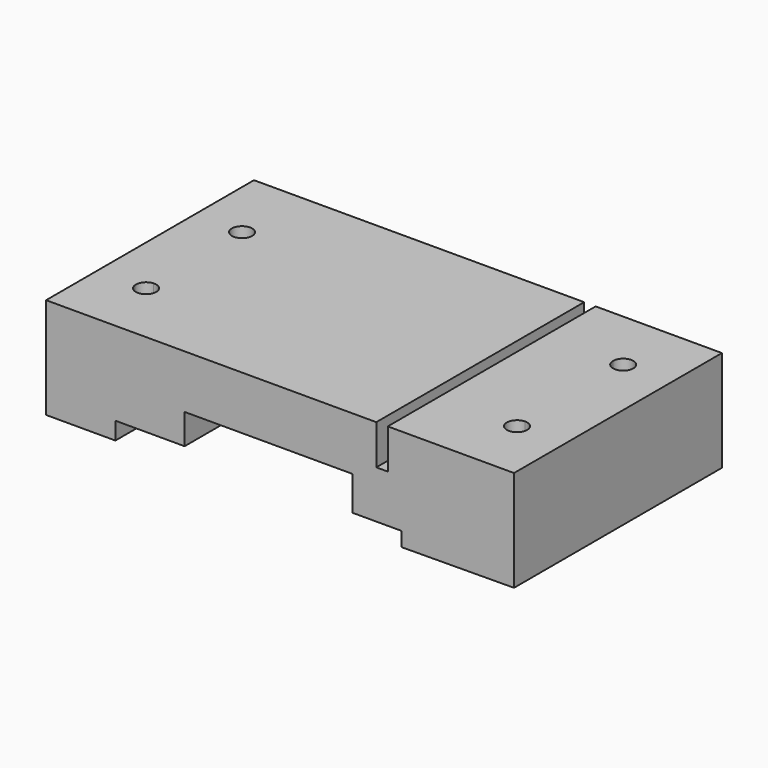
from build123d import *

# Parameters (mm, degrees)
F1_DEPTH = 2286
F3_DEPTH = 895.7209988133


with BuildPart() as f1:
    # F0 (on Front) → F1 (new body)
    with BuildSketch(Plane.XZ):
        Polygon((-2173.2498644925, -413.1607788317), (-1563.6498644925, -413.1607788317), (-1563.6498644925, -259.1607647607), (-954.8118644925, -259.1607647607), (-954.8118644925, 6.839222355), (522.7061355075, 6.839222355), (522.7061355075, -294.150777645), (952.4741355075, -294.150777645), (952.4741355075, -419.880777645), (1396.7500487082, -416.8669137146), (1943.0741355075, -413.1607788317), (1943.0741355075, 475.8392211683), (832.3321355075, 475.8392211683), (832.3321355075, 125.8391950607), (731.4941355075, 125.8391950607), (731.4941355075, 475.8392211683), (-2173.2498644925, 475.8392211683), align=None)
    extrude(amount=F1_DEPTH)

    # F2 (on face) → F3 (cut, through all)
    with BuildSketch(Plane.XY.offset(475.8392211683)):
        with BuildLine():
            Line((-1754.1498644925, -744.5998737153), (-1754.1498644925, -565.7838737153))
            ThreePointArc((-1754.1498644925, -565.7838737153), (-1843.5578644925, -655.1918737153), (-1754.1498644925, -744.5998737153))
        make_face()
        with BuildLine():
            Line((-1836.9548991941, -1727.2), (-1754.1498644925, -1727.2))
            Line((-1754.1498644925, -1727.2), (-1754.1498644925, -1629.2347665525))
            ThreePointArc((-1754.1498644925, -1629.2347665525), (-1816.2614033196, -1660.7130995458), (-1836.9548991941, -1727.2))
        make_face()
        with BuildLine():
            ThreePointArc((-1836.9548991941, -1727.2), (-1810.2703685282, -1782.5657985528), (-1754.1498644925, -1807.624227335))
            Line((-1754.1498644925, -1807.624227335), (-1754.1498644925, -1727.2))
            Line((-1754.1498644925, -1727.2), (-1836.9548991941, -1727.2))
        make_face()
        with BuildLine():
            ThreePointArc((-1754.1498644925, -1807.624227335), (-1690.2617141483, -1786.7127887171), (-1659.0013238983, -1727.2))
            Line((-1659.0013238983, -1727.2), (-1754.1498644925, -1727.2))
            Line((-1754.1498644925, -1727.2), (-1754.1498644925, -1807.624227335))
        make_face()
        with BuildLine():
            Line((-1754.1498644925, -1727.2), (-1659.0013238983, -1727.2))
            ThreePointArc((-1659.0013238983, -1727.2), (-1658.6779797042, -1722.8200455414), (-1658.5701115462, -1718.4294969437))
            ThreePointArc((-1658.5701115462, -1718.4294969437), (-1686.9781673799, -1653.0628596147), (-1754.1498644925, -1629.2347665525))
            Line((-1754.1498644925, -1629.2347665525), (-1754.1498644925, -1727.2))
        make_face()
        with BuildLine():
            ThreePointArc((-1664.7418644925, -655.1918737153), (-1690.9288614001, -591.970870623), (-1754.1498644925, -565.7838737153))
            Line((-1754.1498644925, -565.7838737153), (-1754.1498644925, -744.5998737153))
            ThreePointArc((-1754.1498644925, -744.5998737153), (-1690.9288614001, -718.4128768077), (-1664.7418644925, -655.1918737153))
        make_face()
        with BuildLine():
            Line((1523.9741355075, -558.8), (1432.032637423, -558.8))
            ThreePointArc((1432.032637423, -558.8), (1459.3452205786, -622.5030019151), (1523.9741355075, -647.5460250302))
            Line((1523.9741355075, -647.5460250302), (1523.9741355075, -558.8))
        make_face()
        with BuildLine():
            Line((1523.9741355075, -558.8), (1523.9741355075, -468.8019538916))
            ThreePointArc((1523.9741355075, -468.8019538916), (1458.8963283547, -494.2813137682), (1432.032637423, -558.8))
            Line((1432.032637423, -558.8), (1523.9741355075, -558.8))
        make_face()
        with BuildLine():
            ThreePointArc((1610.8442542135, -558.8), (1610.8458979154, -558.4869966486), (1610.8464458183, -558.1739894609))
            ThreePointArc((1610.8464458183, -558.1739894609), (1585.549682773, -495.8559362168), (1523.9741355075, -468.8019538916))
            Line((1523.9741355075, -468.8019538916), (1523.9741355075, -558.8))
            Line((1523.9741355075, -558.8), (1610.8442542135, -558.8))
        make_face()
        with BuildLine():
            ThreePointArc((1523.9741355075, -647.5460250302), (1585.3311215109, -620.7161069245), (1610.8442542135, -558.8))
            Line((1610.8442542135, -558.8), (1523.9741355075, -558.8))
            Line((1523.9741355075, -558.8), (1523.9741355075, -647.5460250302))
        make_face()
        with BuildLine():
            Line((1523.9741355075, -1727.2), (1523.9741355075, -1639.6287478))
            ThreePointArc((1523.9741355075, -1639.6287478), (1461.4058906996, -1665.1696576388), (1434.5850040568, -1727.2))
            Line((1434.5850040568, -1727.2), (1523.9741355075, -1727.2))
        make_face()
        with BuildLine():
            ThreePointArc((1613.3632669583, -1727.2), (1586.5423803155, -1665.1696576388), (1523.9741355075, -1639.6287478))
            Line((1523.9741355075, -1639.6287478), (1523.9741355075, -1727.2))
            Line((1523.9741355075, -1727.2), (1613.3632669583, -1727.2))
        make_face()
        with BuildLine():
            ThreePointArc((1613.3821355075, -1729.0367478), (1613.3774182458, -1728.118325443), (1613.3632669583, -1727.2))
            Line((1613.3632669583, -1727.2), (1523.9741355075, -1727.2))
            Line((1523.9741355075, -1727.2), (1523.9741355075, -1818.4447478))
            ThreePointArc((1523.9741355075, -1818.4447478), (1587.1951385999, -1792.2577508923), (1613.3821355075, -1729.0367478))
        make_face()
        with BuildLine():
            Line((1523.9741355075, -1727.2), (1434.5850040568, -1727.2))
            ThreePointArc((1434.5850040568, -1727.2), (1460.1070453464, -1791.6049926079), (1523.9741355075, -1818.4447478))
            Line((1523.9741355075, -1818.4447478), (1523.9741355075, -1727.2))
        make_face()
    extrude(amount=-F3_DEPTH, mode=Mode.SUBTRACT)


solid = f1.part
